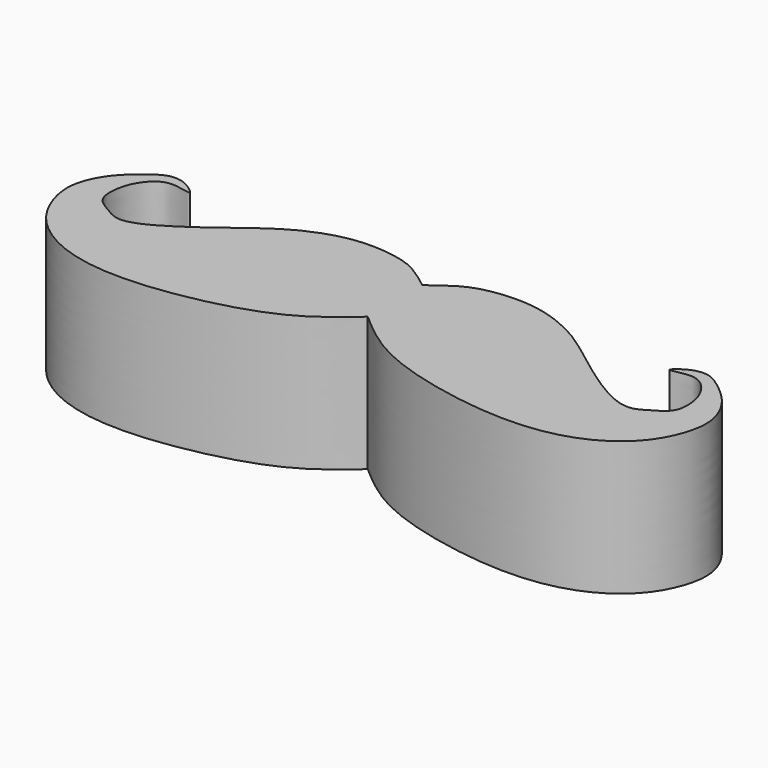
from build123d import *

# Parameters (mm, degrees)
F1_DEPTH = 12.7


with BuildPart() as f1:
    # F0 (on Top) → F1 (new body)
    with BuildSketch(Plane.XY):
        with BuildLine():
            Line((0, 5.0828801468), (0, -1.3796568383))
            add(Edge.make_bspline(
                [(0, -1.3796568383), (1.4177412664, -2.6059296656), (4.5124688707, -5.2827088913), (12.4024334428, -7.5265258643), (19.9119644469, -8.1660625241), (25.3943698764, -6.7398556735), (28.9910742739, -3.7749751349), (30.3673497044, -0.0694796792), (30.1671241099, 2.3051024074), (28.9215030001, 4.6774628108), (26.7186490207, 6.4595736201), (25.5065654141, 7.1648544608), (23.9251659, 7.0821681072), (21.9142829189, 5.4377837124), (24.9730810196, 6.6524939256), (26.7480001595, 4.8689543516), (27.3581029709, 3.0186458685), (27.3226144765, 0.9049060263), (25.6649631653, 0.014461124), (24.25821902, -0.9204501776), (21.6017207943, -0.1108458169), (17.161490786, 3.0648923658), (13.636410153, 5.888608563), (9.9730597804, 7.4199202233), (6.8725155541, 7.8035958314), (3.7220938203, 7.4036639442), (1.8652122617, 6.5144101902), (0.6355369619, 5.5706478252), (0, 5.0828801468)],
                knots=[0, 0, 0, 0, 0.0527937337, 0.1152412142, 0.1756907259, 0.2269439535, 0.2733707118, 0.3157517269, 0.3487904591, 0.3843380435, 0.4209657924, 0.4462512087, 0.4744216869, 0.5006239778, 0.5312087495, 0.5648275784, 0.5956441106, 0.6256429789, 0.6543754729, 0.6816572326, 0.7162825504, 0.7678156703, 0.8152357231, 0.8580536649, 0.8968955967, 0.9353288653, 0.9665758136, 1, 1, 1, 1], degree=3))
        make_face()
    extrude(amount=F1_DEPTH)

    # F2: F1 across plane


with BuildPart() as f1_1:
    add(f1.part)
    add(f1.part.mirror(Plane.YZ))


solid = f1_1.part
